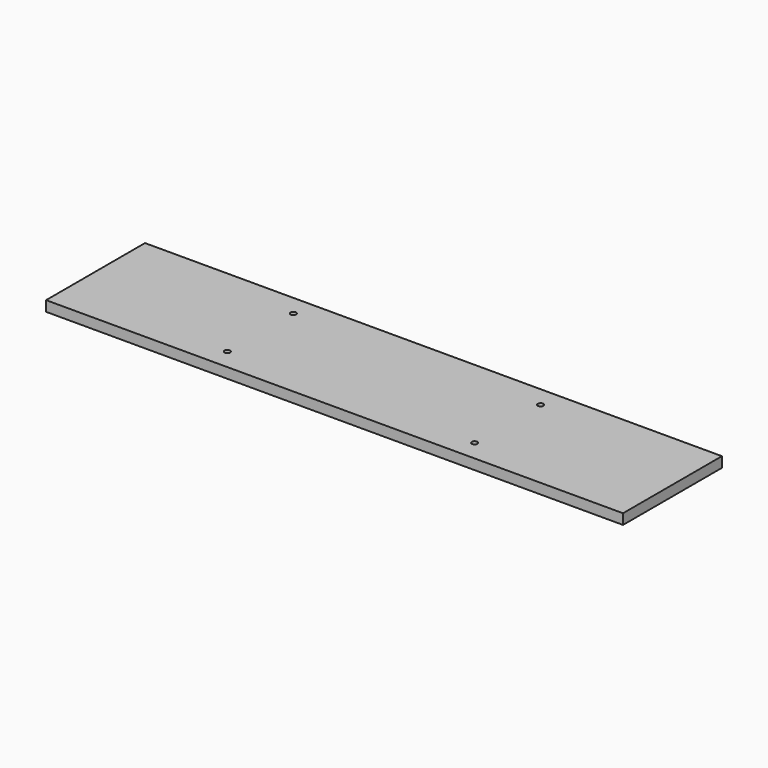
from build123d import *

# Parameters (mm, degrees)
F0_W     = 355.6
F0_H     = 76.2
F1_DEPTH = 6.35
F3_D     = 3.4544


with BuildPart() as f1:
    # F0 (on Top) → F1 (new body)
    with BuildSketch(Plane.XY):
        with Locations((-177.8, 38.1)):
            Rectangle(F0_W, F0_H)
    extrude(amount=F1_DEPTH)

    # F3 (through all)
    with Locations(Plane.XY.offset(6.35)):
        with Locations((-254, 63.5), (-254, 12.7), (-101.6, 12.7), (-101.6, 63.5)):
            Hole(F3_D / 2)


solid = f1.part
